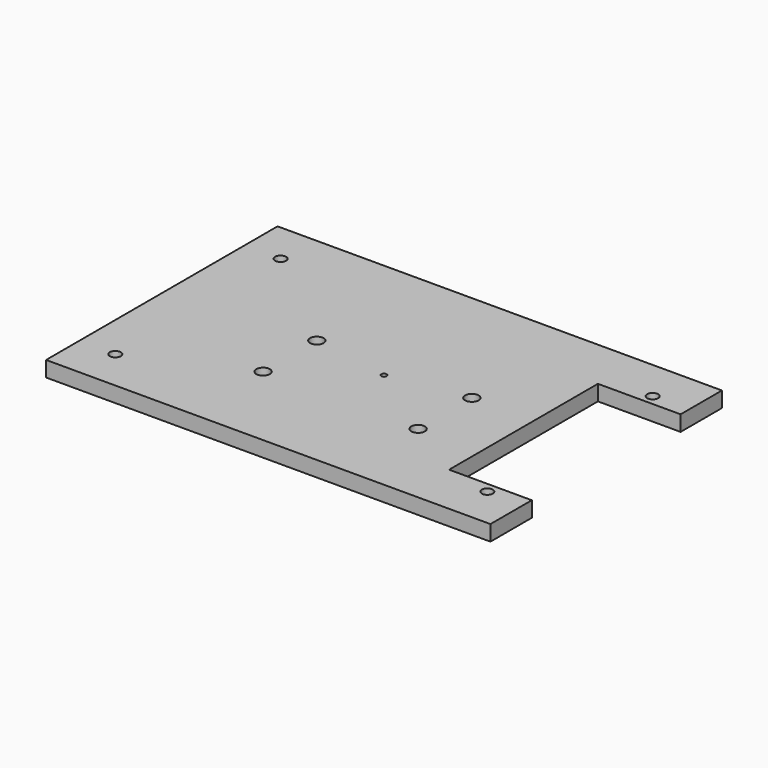
from build123d import *

# Parameters (mm, degrees)
F0_W     = 546.1
F0_H     = 355.6
F1_DEPTH = 19.05
F3_D     = 13.49248
F4_W     = 101.6
F4_H     = 228.6
F5_DEPTH = 19.05
F8_D     = 6.5278
F10_D    = 16.66748


with BuildPart() as f1:
    # F0 (on Top) → F1 (new body)
    with BuildSketch(Plane.XY):
        with Locations((-273.05, 177.8)):
            Rectangle(F0_W, F0_H)
    extrude(amount=F1_DEPTH)

    # F3 (through all)
    with Locations(Plane.XY.offset(19.05)):
        with Locations((-501.65, 304.8), (-44.45, 304.8), (-44.45, 50.8), (-501.65, 50.8)):
            Hole(F3_D / 2)

    # F4 (on face) → F5 (cut)
    with BuildSketch(Plane.XY.offset(19.05)):
        with Locations((-50.8, 177.8)):
            Rectangle(F4_W, F4_H)
    extrude(amount=-F5_DEPTH, mode=Mode.SUBTRACT)

    # F8 (through all)
    with Locations(Plane.XY.offset(19.05)):
        with Locations((-273.05, 177.8)):
            Hole(F8_D / 2)

    # F10 (through all)
    with Locations(Plane(origin=(0, 0, 0), x_dir=(1, 0, 0), z_dir=(0, 0, -1))):
        with Locations((-177.8, -193.675), (-368.3, -193.675), (-368.3, -111.125), (-177.8, -111.125)):
            Hole(F10_D / 2)


solid = f1.part
